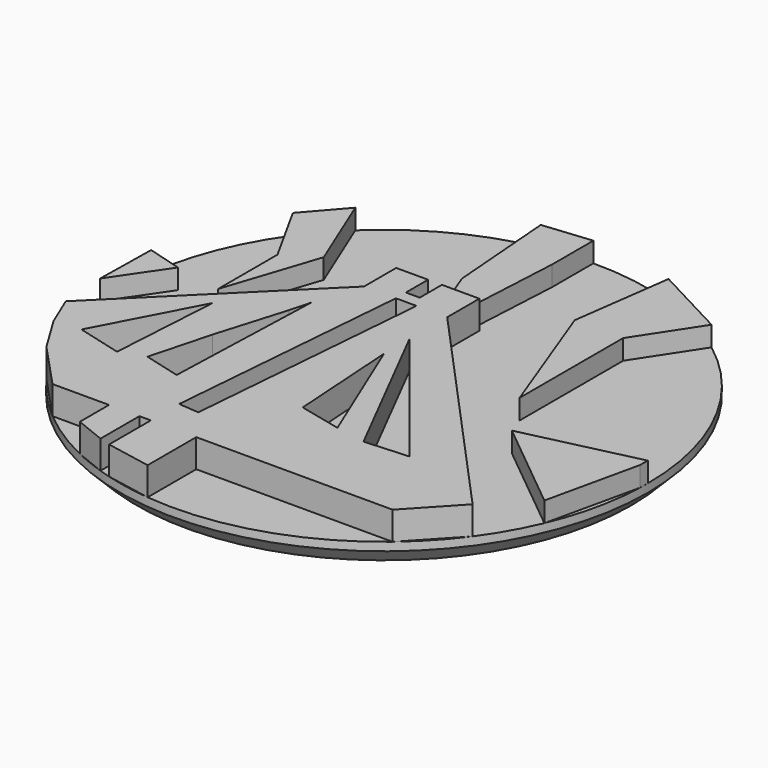
from build123d import *

# Parameters (mm, degrees)
F0_R     = 40.300132
F1_DEPTH = 3.81
F3_DEPTH = 4.318
F5_DEPTH = 3.048
F6_SIZE  = 2.54


with BuildPart() as f1:
    # F0 (on Top) → F1 (new body)
    with BuildSketch(Plane.XY):
        Circle(F0_R)
    extrude(amount=F1_DEPTH)

    # F2 (on face) → F3 (join)
    with BuildSketch(Plane.XY.offset(3.81)):
        Polygon((-12.7, 12.065001), (-38.099417, -13.13526), (-36.048727, -18.01638), (-32.545974, -23.766789), (-25.968902, -30.817476), (-17.341349, -30.817476), (-17.341349, -36.378266), (-12.7, -38.246708), (-12.7, -30.817476), (-10.954359, -30.817476), (-10.954359, -38.782763), (-4.021667, -40.098963), (-4.021667, -30.817476), (25.968902, -30.817476), (32.545974, -23.766789), (0, 12.065001), (0, 18.203333), (-5.715, 18.203333), (-5.715, 13.970001), (-7.831667, 13.970001), (-7.831667, 18.203333), (-12.7, 18.203333), align=None)
        Polygon((-32.079459, -17.64981), (-24.13, -2.54), (-25.176337, -19.490644), align=None, mode=Mode.SUBTRACT)
        Polygon((-15.875001, 1.693333), (-15.028333, 4.868333), (-15.875001, -19.741447), (-21.540818, -18.230561), (-19.05, -8.89), align=None, mode=Mode.SUBTRACT)
        Polygon((-10.954359, -25.400002), (-7.831667, 12.065001), (-4.687281, 12.065001), (-7.831667, -25.660277), align=None, mode=Mode.SUBTRACT)
        Polygon((1.096531, -16.889627), (0, 0), (7.620001, -18.415), align=None, mode=Mode.SUBTRACT)
        Polygon((12.276666, -19.261668), (0, 4.868333), (18.980519, -18.826431), align=None, mode=Mode.SUBTRACT)
    extrude(amount=F3_DEPTH)

    # F4 (on face) → F5 (join)
    with BuildSketch(Plane.XY.offset(3.81)):
        Polygon((-27.753039, 29.221045), (-32.726801, 23.517167), (-27.421443, 13.944304), (-27.421443, 2.596435), (-22.703789, 16.876899), align=None)
        Polygon((-0.263061, 40.299274), (-7.706075, 39.556505), (-6.383259, 22.869593), (-4.598201, 18.203333), (-1.028085, 18.203333), (-0.263061, 32.432403), align=None)
        Polygon((24.298004, 32.151324), (12.9145, 38.174813), (10.8298, 22.869593), (18.22504, 3.106451), (18.22504, 22.869593), align=None)
        Polygon((-34.626219, 3.940945), (-39.928179, 5.462706), (-40.093051, -4.080189), align=None)
        Polygon((40.271871, -1.508983), (40.300132, 0), (22.7941, -4.080189), (37.093364, -15.753824), align=None)
    extrude(amount=F5_DEPTH)

    # F6
    f6_edges = [f1.edges().sort_by_distance(p)[0] for p in [
        (-40.300132, 0, 0),
    ]]
    chamfer(f6_edges, length=F6_SIZE)


solid = f1.part
